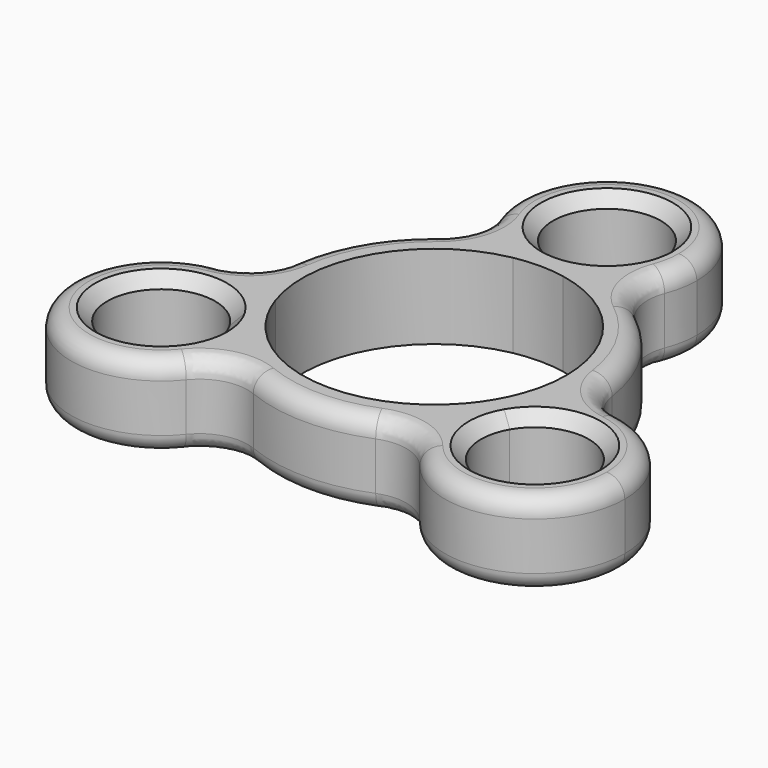
from build123d import *

# Parameters (mm, degrees)
F1_DEPTH = 7
F2_SIZE  = 1
F3_R     = 4
F4_R     = 1.5


with BuildPart() as f1:
    # F0 (on Top) → F1 (new body)
    with BuildSketch(Plane.XY):
        with BuildLine():
            ThreePointArc((4.7e-08, 13.5), (2.5980762344, 13.247641295), (5.0990195136, 12.5))
            ThreePointArc((5.0990195136, 12.5), (6.8735960876, 14.9993872586), (7.5, 18))
            ThreePointArc((7.5, 18), (-3.0006127414, 24.8735960876), (-5.0990195136, 12.5))
            ThreePointArc((-5.0990195136, 12.5), (-2.5980761883, 13.247641304), (4.7e-08, 13.5))
        make_face()
        with BuildLine():
            ThreePointArc((4.5, 18), (3.181980532, 14.8180195013), (4.7e-08, 13.5))
            ThreePointArc((4.7e-08, 13.5), (-3.181980532, 21.1819804987), (4.5, 18))
        make_face(mode=Mode.SUBTRACT)
        with BuildLine():
            ThreePointArc((-2.0952322236, 10.7986111111), (0, 11), (2.0952322236, 10.7986111111))
            ThreePointArc((2.0952322236, 10.7986111111), (3.696348949, 11.4741280699), (5.0990195136, 12.5))
            ThreePointArc((5.0990195136, 12.5), (2.5980762344, 13.247641295), (4.7e-08, 13.5))
            ThreePointArc((4.7e-08, 13.5), (-2.5980761883, 13.247641304), (-5.0990195136, 12.5))
            ThreePointArc((-5.0990195136, 12.5), (-3.696348949, 11.4741280699), (-2.0952322236, 10.7986111111))
        make_face()
        with BuildLine():
            ThreePointArc((-10.3994876596, -3.5847812231), (-9.5262794416, 5.5), (-2.0952322236, 10.7986111111))
            ThreePointArc((-2.0952322236, 10.7986111111), (-3.696348949, 11.4741280699), (-5.0990195136, 12.5))
            ThreePointArc((-5.0990195136, 12.5), (-11.6913429511, 6.75), (-13.3748273041, -1.8341195668))
            ThreePointArc((-13.3748273041, -1.8341195668), (-11.7850608693, -2.5359319439), (-10.3994876596, -3.5847812231))
        make_face()
        with BuildLine():
            ThreePointArc((-8.304255436, -7.2138298881), (-9.5262794416, -5.5), (-10.3994876596, -3.5847812231))
            ThreePointArc((-10.3994876596, -3.5847812231), (-11.7850608693, -2.5359319439), (-13.3748273041, -1.8341195668))
            ThreePointArc((-13.3748273041, -1.8341195668), (-12.7718320111, -4.3738206501), (-11.6913429507, -6.7500000007))
            ThreePointArc((-11.6913429507, -6.7500000007), (-10.1737557996, -8.8738206501), (-8.2758077905, -10.6658804332))
            ThreePointArc((-8.2758077905, -10.6658804332), (-8.1354420702, -9.8381911828), (-8.0884572681, -9))
            ThreePointArc((-8.0884572681, -9), (-8.1426022554, -8.1004205819), (-8.304255436, -7.2138298881))
        make_face()
        with BuildLine():
            ThreePointArc((8.2758077905, -10.6658804332), (8.0887119204, -8.938196126), (8.304255436, -7.2138298881))
            ThreePointArc((8.304255436, -7.2138298881), (0, -11), (-8.304255436, -7.2138298881))
            ThreePointArc((-8.304255436, -7.2138298881), (-8.1426022554, -8.1004205819), (-8.0884572681, -9))
            ThreePointArc((-8.0884572681, -9), (-8.1354420702, -9.8381911828), (-8.2758077905, -10.6658804332))
            ThreePointArc((-8.2758077905, -10.6658804332), (0, -13.5), (8.2758077905, -10.6658804332))
        make_face()
        with BuildLine():
            ThreePointArc((13.3748273041, -1.8341195668), (11.7850608693, -2.5359319439), (10.3994876596, -3.5847812231))
            ThreePointArc((10.3994876596, -3.5847812231), (9.5262794416, -5.5), (8.304255436, -7.2138298881))
            ThreePointArc((8.304255436, -7.2138298881), (8.0887119204, -8.938196126), (8.2758077905, -10.6658804332))
            ThreePointArc((8.2758077905, -10.6658804332), (10.1737557667, -8.8738206879), (11.6913429005, -6.7500000876))
            ThreePointArc((11.6913429005, -6.7500000876), (12.7718319949, -4.3738206976), (13.3748273041, -1.8341195668))
        make_face()
        with BuildLine():
            ThreePointArc((2.0952322236, 10.7986111111), (8.4866823453, 6.9983014203), (11, 0))
            ThreePointArc((11, 0), (10.8488332151, -1.8173656407), (10.3994876596, -3.5847812231))
            ThreePointArc((10.3994876596, -3.5847812231), (11.7850608693, -2.5359319439), (13.3748273041, -1.8341195668))
            ThreePointArc((13.3748273041, -1.8341195668), (13.4686704727, -0.9191929598), (13.5, 0))
            ThreePointArc((13.5, 0), (11.2046143047, 7.5303796905), (5.0990195136, 12.5))
            ThreePointArc((5.0990195136, 12.5), (3.696348949, 11.4741280699), (2.0952322236, 10.7986111111))
        make_face()
        with BuildLine():
            ThreePointArc((-11.6913429507, -6.7500000007), (-12.7718320111, -4.3738206501), (-13.3748273041, -1.8341195668))
            ThreePointArc((-13.3748273041, -1.8341195668), (-22.0836477965, -12.75), (-8.2758077905, -10.6658804332))
            ThreePointArc((-8.2758077905, -10.6658804332), (-10.1737557996, -8.8738206501), (-11.6913429507, -6.7500000007))
        make_face()
        with BuildLine():
            ThreePointArc((-11.0884572681, -9), (-19.9351234865, -10.1646857026), (-11.6913429507, -6.7500000007))
            ThreePointArc((-11.6913429507, -6.7500000007), (-11.2417910497, -7.8353142974), (-11.0884572681, -9))
        make_face(mode=Mode.SUBTRACT)
        with BuildLine():
            ThreePointArc((-8.304255436, -7.2138298881), (-9.5262794416, -5.5), (-10.3994876596, -3.5847812231))
            ThreePointArc((-10.3994876596, -3.5847812231), (-11.7850608693, -2.5359319439), (-13.3748273041, -1.8341195668))
            ThreePointArc((-13.3748273041, -1.8341195668), (-12.7718320111, -4.3738206501), (-11.6913429507, -6.7500000007))
            ThreePointArc((-11.6913429507, -6.7500000007), (-10.1737557996, -8.8738206501), (-8.2758077905, -10.6658804332))
            ThreePointArc((-8.2758077905, -10.6658804332), (-8.1354420702, -9.8381911828), (-8.0884572681, -9))
            ThreePointArc((-8.0884572681, -9), (-8.1426022554, -8.1004205819), (-8.304255436, -7.2138298881))
        make_face()
        with BuildLine():
            ThreePointArc((-2.0952322236, 10.7986111111), (0, 11), (2.0952322236, 10.7986111111))
            ThreePointArc((2.0952322236, 10.7986111111), (3.696348949, 11.4741280699), (5.0990195136, 12.5))
            ThreePointArc((5.0990195136, 12.5), (2.5980762344, 13.247641295), (4.7e-08, 13.5))
            ThreePointArc((4.7e-08, 13.5), (-2.5980761883, 13.247641304), (-5.0990195136, 12.5))
            ThreePointArc((-5.0990195136, 12.5), (-3.696348949, 11.4741280699), (-2.0952322236, 10.7986111111))
        make_face()
        with BuildLine():
            ThreePointArc((23.0884572681, -9), (20.0408597247, -2.9645950952), (13.3748273041, -1.8341195668))
            ThreePointArc((13.3748273041, -1.8341195668), (12.7718319949, -4.3738206976), (11.6913429005, -6.7500000876))
            ThreePointArc((11.6913429005, -6.7500000876), (10.1737557667, -8.8738206879), (8.2758077905, -10.6658804332))
            ThreePointArc((8.2758077905, -10.6658804332), (16.4266484509, -16.453015198), (23.0884572681, -9))
        make_face()
        with BuildLine():
            ThreePointArc((20.0884572681, -9), (14.423771614, -13.3466662314), (11.6913429005, -6.7500000876))
            ThreePointArc((11.6913429005, -6.7500000876), (16.7531429222, -4.6533337686), (20.0884572681, -9))
        make_face(mode=Mode.SUBTRACT)
        with BuildLine():
            ThreePointArc((13.3748273041, -1.8341195668), (11.7850608693, -2.5359319439), (10.3994876596, -3.5847812231))
            ThreePointArc((10.3994876596, -3.5847812231), (9.5262794416, -5.5), (8.304255436, -7.2138298881))
            ThreePointArc((8.304255436, -7.2138298881), (8.0887119204, -8.938196126), (8.2758077905, -10.6658804332))
            ThreePointArc((8.2758077905, -10.6658804332), (10.1737557667, -8.8738206879), (11.6913429005, -6.7500000876))
            ThreePointArc((11.6913429005, -6.7500000876), (12.7718319949, -4.3738206976), (13.3748273041, -1.8341195668))
        make_face()
    extrude(amount=F1_DEPTH)

    # F2
    f2_edges = [f1.edges().sort_by_distance(p)[0] for p in [
        (0, 22.5, 7),
        (19.485572, -11.25, 7),
        (-19.485572, -11.25, 7),
        (-19.485572, -11.25, 0),
        (0, 22.5, 0),
        (19.485572, -11.25, 0),
    ]]
    chamfer(f2_edges, length=F2_SIZE)

    # F3
    f3_edges = [f1.edges().sort_by_distance(p)[0] for p in [
        (13.374827, -1.83412, 3.5),
        (5.09902, 12.5, 3.5),
        (-13.374827, -1.83412, 3.5),
        (-5.09902, 12.5, 3.5),
        (-8.275808, -10.66588, 3.5),
        (8.275808, -10.66588, 3.5),
    ]]
    fillet(f3_edges, radius=F3_R)

    # F4
    f4_edges = [f1.edges().sort_by_distance(p)[0] for p in [
        (0, 25.5, 7),
        (0, 25.5, 0),
    ]]
    fillet(f4_edges, radius=F4_R)


solid = f1.part
